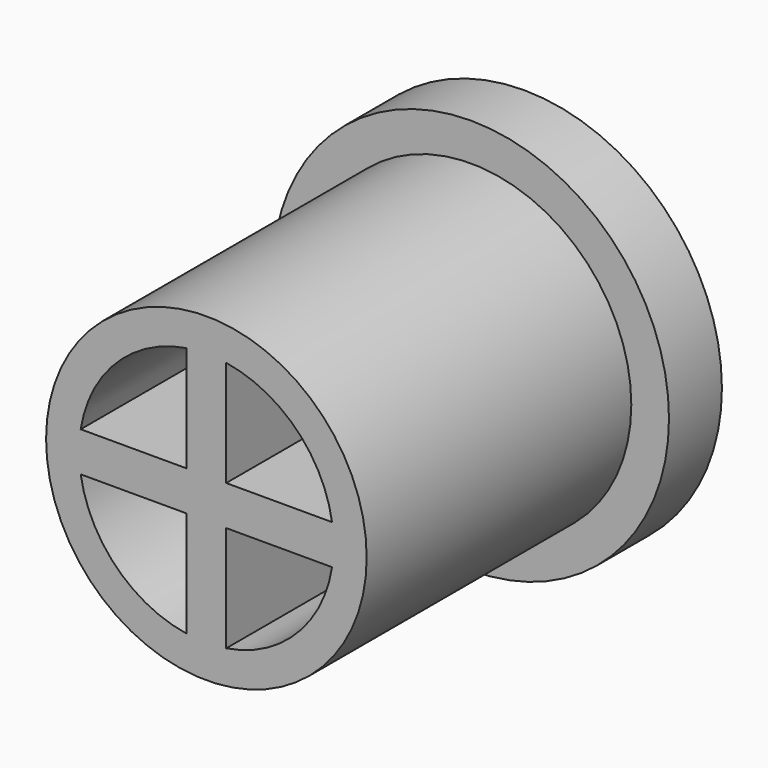
from build123d import *

# Parameters (mm, degrees)
F0_R     = 60.575809744
F0_R_2   = 51.7071854394
F0_R_3   = 49.5795397822
F1_DEPTH = 150
F2_R     = 74.8170316814
F3_DEPTH = 25
F4_DEPTH = 10


with BuildPart() as f1:
    # F0 (on Front) → F1 (new body)
    with BuildSketch(Plane.XZ):
        Circle(F0_R)
        Circle(F0_R_2, mode=Mode.SUBTRACT)
        Circle(F0_R_2)
        Circle(F0_R_3, mode=Mode.SUBTRACT)
        Circle(F0_R_3)
        with BuildLine():
            ThreePointArc((47.4934404762, 7.4934404762), (47.9338537115, 3.7582185677), (48.0809581689, 0))
            ThreePointArc((48.0809581689, 0), (47.9338537115, -3.7582185677), (47.4934404762, -7.4934404762))
            ThreePointArc((47.4934404762, -7.4934404762), (33.9983715672, -33.9983715672), (7.4934404762, -47.4934404762))
            ThreePointArc((7.4934404762, -47.4934404762), (0, -48.0809581689), (-7.4934404762, -47.4934404762))
            ThreePointArc((-7.4934404762, -47.4934404762), (-33.9983715672, -33.9983715672), (-47.4934404762, -7.4934404762))
            ThreePointArc((-47.4934404762, -7.4934404762), (-48.0809581689, 0), (-47.4934404762, 7.4934404762))
            ThreePointArc((-47.4934404762, 7.4934404762), (-33.9983715672, 33.9983715672), (-7.4934404762, 47.4934404762))
            ThreePointArc((-7.4934404762, 47.4934404762), (0, 48.0809581689), (7.4934404762, 47.4934404762))
            ThreePointArc((7.4934404762, 47.4934404762), (33.9983715672, 33.9983715672), (47.4934404762, 7.4934404762))
        make_face(mode=Mode.SUBTRACT)
        with BuildLine():
            ThreePointArc((47.4934404762, -7.4934404762), (47.9338537115, -3.7582185677), (48.0809581689, 0))
            ThreePointArc((48.0809581689, 0), (47.9338537115, 3.7582185677), (47.4934404762, 7.4934404762))
            Line((47.4934404762, 7.4934404762), (7.4934404762, 7.4934404762))
            Line((7.4934404762, 7.4934404762), (7.4934404762, 47.4934404762))
            ThreePointArc((7.4934404762, 47.4934404762), (0, 48.0809581689), (-7.4934404762, 47.4934404762))
            Line((-7.4934404762, 47.4934404762), (-7.4934404762, 7.4934404762))
            Line((-7.4934404762, 7.4934404762), (-47.4934404762, 7.4934404762))
            ThreePointArc((-47.4934404762, 7.4934404762), (-48.0809581689, 0), (-47.4934404762, -7.4934404762))
            Line((-47.4934404762, -7.4934404762), (-7.4934404762, -7.4934404762))
            Line((-7.4934404762, -7.4934404762), (-7.4934404762, -47.4934404762))
            ThreePointArc((-7.4934404762, -47.4934404762), (0, -48.0809581689), (7.4934404762, -47.4934404762))
            Line((7.4934404762, -47.4934404762), (7.4934404762, -7.4934404762))
            Line((7.4934404762, -7.4934404762), (47.4934404762, -7.4934404762))
        make_face()
    extrude(amount=F1_DEPTH)

    # F2 (on Front) → F3 (join)
    with BuildSketch(Plane.XZ):
        Circle(F2_R)
    extrude(amount=F3_DEPTH)

    # F4 (cut): faces of the model
    f4_faces = [f1.faces().sort_by_distance(p)[0] for p in [
        (-23.6778496661, -25, 23.6778496661),
        (23.6778496661, -25, 23.6778496661),
        (23.6778496661, -25, -23.6778496661),
        (-23.6778496661, -25, -23.6778496661),
    ]]
    extrude(f4_faces, amount=-F4_DEPTH, mode=Mode.SUBTRACT)


solid = f1.part
